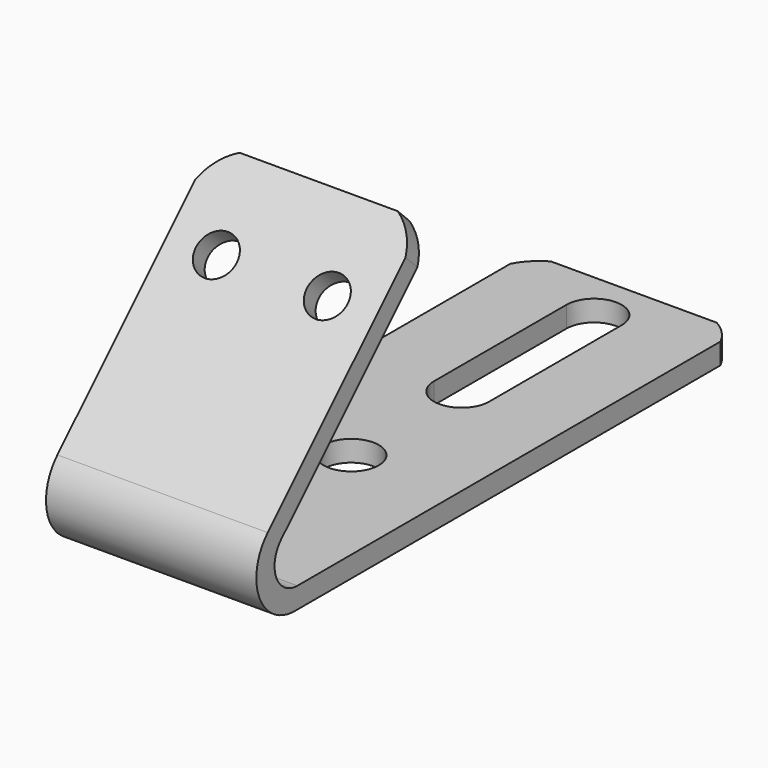
from build123d import *

# Parameters (mm, degrees)
F1_DEPTH = 19.05
F2_R     = 2.5
F3_DEPTH = 22
F5_DEPTH = 25
F7_DEPTH = 5
F8_R     = 1.8568549072
F9_DEPTH = 5


with BuildPart() as f1:
    # F0 (on Right) → F1 (new body)
    with BuildSketch(Plane.YZ):
        with BuildLine():
            Line((25, 0), (25, 1.9))
            Line((25, 1.9), (-25, 1.9))
            ThreePointArc((-25, 1.9), (-27.3925963531, 3.5206705817), (-26.8228433758, 6.3537734721))
            Line((-26.8228433758, 6.3537734721), (-9.338179633, 23.8384372149))
            Line((-9.338179633, 23.8384372149), (-10.6816825172, 25.1819400992))
            Line((-10.6816825172, 25.1819400992), (-28.3593520469, 7.5042705695))
            ThreePointArc((-28.3593520469, 7.5042705695), (-29.2640479302, 2.5952189514), (-25.0000004369, 0))
            Line((-25.0000004369, 0), (25, 0))
        make_face()
    extrude(amount=F1_DEPTH)

    # F2 (on face) → F3 (cut)
    with BuildSketch(Plane(origin=(0, 0, 0), x_dir=(1, 0, 0), z_dir=(0, 0, -1))):
        with BuildLine():
            Line((7.025, -5.5), (7.025, -20.5))
            ThreePointArc((7.025, -20.5), (9.525, -23), (12.025, -20.5))
            Line((12.025, -20.5), (12.025, -5.5))
            ThreePointArc((12.025, -5.5), (9.525, -3), (7.025, -5.5))
        make_face()
        with Locations((9.525, 7)):
            Circle(F2_R)
    extrude(amount=-F3_DEPTH, mode=Mode.SUBTRACT)

    # F4 (on face) → F5 (cut)
    with BuildSketch(Plane(origin=(0, 0, 0), x_dir=(1, 0, 0), z_dir=(0, 0, -1))):
        with BuildLine():
            ThreePointArc((2.0190405194, -25), (0.8550772375, -24.1079124506), (0, -22.9164958))
            Line((0, -22.9164958), (0, -25))
            Line((0, -25), (2.0190405194, -25))
        make_face()
        with BuildLine():
            ThreePointArc((19.05, -22.9164958), (18.1949227625, -24.1079124506), (17.0309594806, -25))
            Line((17.0309594806, -25), (19.05, -25))
            Line((19.05, -25), (19.05, -22.9164958))
        make_face()
    extrude(amount=-F5_DEPTH, mode=Mode.SUBTRACT)

    # F6 (on face) → F7 (cut)
    with BuildSketch(Plane(origin=(0, -17.9318113082, 17.9318113082), x_dir=(1, 0, 0), z_dir=(0, -0.7071067812, 0.7071067812))):
        with BuildLine():
            ThreePointArc((0, 7.3159923777), (0.8932364996, 9.0155780009), (2.3611190263, 10.2532304652))
            Line((2.3611190263, 10.2532304652), (0, 10.2532304652))
            Line((0, 10.2532304652), (0, 7.3159923777))
        make_face()
        with BuildLine():
            Line((19.05, 10.2532304652), (16.6888809737, 10.2532304652))
            ThreePointArc((16.6888809737, 10.2532304652), (18.1567635004, 9.0155780009), (19.05, 7.3159923777))
            Line((19.05, 7.3159923777), (19.05, 10.2532304652))
        make_face()
    extrude(amount=-F7_DEPTH, mode=Mode.SUBTRACT)

    # F8 (on face) → F9 (cut)
    with BuildSketch(Plane(origin=(0, -17.9318113082, 17.9318113082), x_dir=(1, 0, 0), z_dir=(0, -0.7071067812, 0.7071067812))):
        with Locations((4.5, 2.7532304652)):
            Circle(F8_R)
        with Locations((14.55, 2.7532304652)):
            Circle(F8_R)
    extrude(amount=-F9_DEPTH, mode=Mode.SUBTRACT)


solid = f1.part
